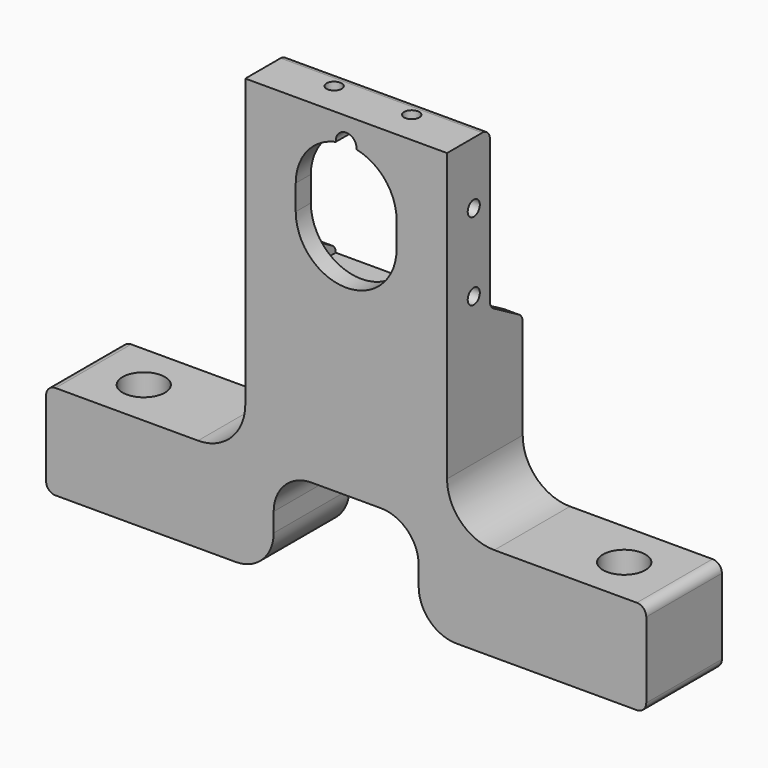
from build123d import *

# Parameters (mm, degrees)
PAD008_DEPTH         = 15
SKETCH021_W          = 27.3
SKETCH021_H          = 27.3
POCKET006_DEPTH      = 12
POCKET007_DEPTH      = 5
SKETCH023_R          = 3.3665
POCKET008_DEPTH      = 68.001
SKETCH024_R          = 1.2
POCKET009_DEPTH      = 2.35
SKETCH026_R          = 1.2
POCKET010_DEPTH      = 33.951
POCKET010_DEPTH_BACK = 61.251
POCKET011_DEPTH      = 63.601


with BuildPart() as part:
    # Sketch020 → Pad008 (new body)
    with BuildSketch(Plane.XZ):
        with BuildLine():
            Line((-47.6, 1.5), (-47.6, 13.5))
            ThreePointArc((-46.1, 15), (-47.1606601718, 14.5606601718), (-47.6, 13.5))
            Line((-46.1, 15), (-23.5, 15))
            ThreePointArc((-23.5, 15), (-18.1966991411, 17.1966991411), (-16, 22.5))
            Line((-16, 22.5), (-16, 68))
            Line((-16, 68), (16, 68))
            Line((16, 68), (16, 22.5))
            ThreePointArc((16, 22.5), (18.1966991411, 17.1966991411), (23.5, 15))
            Line((23.5, 15), (46.1, 15))
            ThreePointArc((47.6, 13.5), (47.1606601718, 14.5606601718), (46.1, 15))
            Line((47.6, 13.5), (47.6, 1.5))
            ThreePointArc((46.1, 0), (47.1606601718, 0.4393398282), (47.6, 1.5))
            Line((46.1, 0), (17.5, 0))
            ThreePointArc((11.5, 6), (13.2573593129, 1.7573593129), (17.5, 0))
            Line((11.5, 9), (11.5, 6))
            ThreePointArc((11.5, 9), (9.7426406871, 13.2426406871), (5.5, 15))
            Line((-5.5, 15), (5.5, 15))
            ThreePointArc((-5.5, 15), (-9.7426406871, 13.2426406871), (-11.5, 9))
            Line((-11.5, 6), (-11.5, 9))
            ThreePointArc((-17.5, 0), (-13.2573593129, 1.7573593129), (-11.5, 6))
            Line((-17.5, 0), (-46.1, 0))
            ThreePointArc((-47.6, 1.5), (-47.1606601718, 0.4393398282), (-46.1, 0))
        make_face()
    extrude(amount=PAD008_DEPTH)

    # Sketch021 (on Face23 of Pad008) → Pocket006 (cut)
    with BuildSketch(Plane(origin=(0, 0, 0), x_dir=(1, 0, 0), z_dir=(0, 1, 0))):
        with Locations((0, -52)):
            Rectangle(SKETCH021_W, SKETCH021_H)
    extrude(amount=-POCKET006_DEPTH, mode=Mode.SUBTRACT)

    # Sketch022 (on Face29 of Pocket006) → Pocket007 (cut)
    with BuildSketch(Plane(origin=(0, -12, 0), x_dir=(1, 0, 0), z_dir=(0, 1, 0))):
        with BuildLine():
            ThreePointArc((-8, -56.0000000001), (-6.2100572838, -61.0433310949), (-1.6412028669, -63.8298437501))
            ThreePointArc((-1.6412028669, -63.8298437501), (0, -65.65), (1.6412028669, -63.8298437501))
            ThreePointArc((1.6412028669, -63.8298437501), (6.2100482063, -61.0433422724), (7.9999999999, -56.0000287985))
            Line((7.9999999999, -56.0000287985), (7.9999999999, -52.0000000001))
            ThreePointArc((8, -52.0000000001), (0, -44.0000000001), (-8, -52.0000000001))
            Line((-8, -52.0000000001), (-8, -56.0000000001))
        make_face()
    extrude(amount=-POCKET007_DEPTH, mode=Mode.SUBTRACT)

    # Sketch023 (on Face22 of Pocket007) → Pocket008 (cut, through all)
    with BuildSketch(Plane(origin=(0, 0, 0), x_dir=(1, 0, 0), z_dir=(0, 0, -1))):
        with Locations((38.1, 7.5)):
            Circle(SKETCH023_R)
        with Locations((-38.1, 7.5)):
            Circle(SKETCH023_R)
    extrude(amount=-POCKET008_DEPTH, mode=Mode.SUBTRACT)

    # Sketch024 (on Face13 of Pocket008) → Pocket009 (cut)
    with BuildSketch(Plane(origin=(0, 0, 68), x_dir=(-1, 0, 0), z_dir=(0, 0, 1))):
        with Locations((-6.15, 9.7)):
            Circle(SKETCH024_R)
        with Locations((6.15, 9.7)):
            Circle(SKETCH024_R)
    extrude(amount=-POCKET009_DEPTH, mode=Mode.SUBTRACT)

    # Sketch026 (on Face27 of Pocket009) → Pocket010 (cut, two sides)
    with BuildSketch(Plane(origin=(-13.65, 0, 0), x_dir=(0, 0, 1), z_dir=(1, 0, 0))) as pocket010_sk:
        with Locations((45.85, 9.7)):
            Circle(SKETCH026_R)
        with Locations((58.15, 9.7)):
            Circle(SKETCH026_R)
    extrude(amount=-POCKET010_DEPTH, mode=Mode.SUBTRACT)
    extrude(pocket010_sk.sketch, amount=POCKET010_DEPTH_BACK, mode=Mode.SUBTRACT)

    # Sketch027 (on Face15 of Pocket010) → Pocket011 (cut, through all)
    with BuildSketch(Plane(origin=(16, 0, 0), x_dir=(0, 0, 1), z_dir=(1, 0, 0))):
        with BuildLine():
            ThreePointArc((66.5, 6.5), (67.5606601718, 6.9393398282), (68, 8))
            Line((68, 8), (68, 0))
            Line((68, 0), (38.35, 0))
            ThreePointArc((38.35, 0), (39.1, 0.2009618943), (39.6490381057, 0.75))
            Line((42.5357894517, 5.75), (39.6490381057, 0.75))
            ThreePointArc((43.8348275573, 6.5), (43.0848275573, 6.2990381057), (42.5357894517, 5.75))
            Line((43.8348275573, 6.5), (66.5, 6.5))
        make_face()
    extrude(amount=-POCKET011_DEPTH, mode=Mode.SUBTRACT)


solid = part.part
